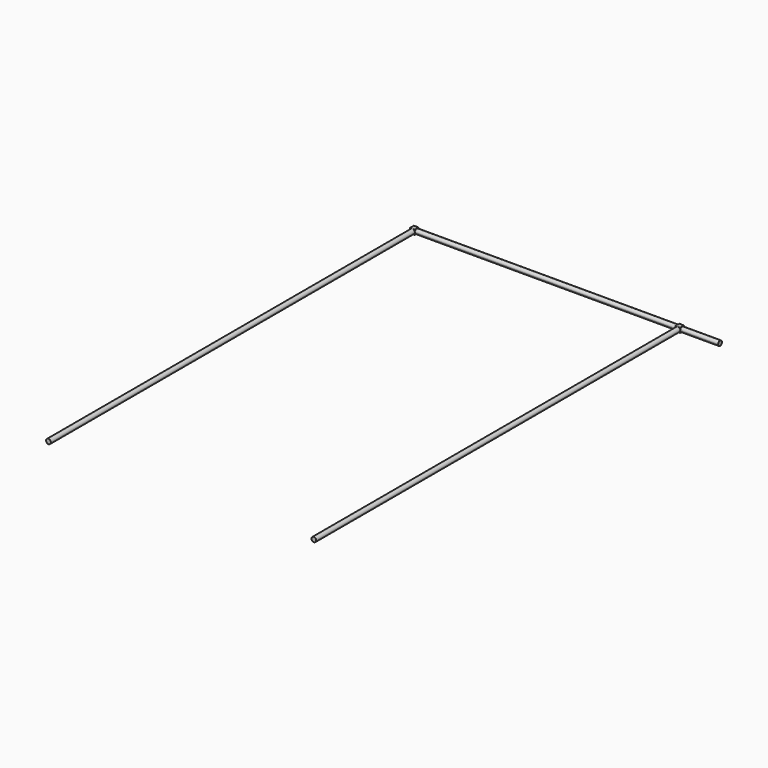
from build123d import *

# Parameters (mm, degrees)
F0_R     = 9.525
F1_DEPTH = 1828.8
F2_W     = 19.05
F2_H     = 19.05
F3_DEPTH = 19.05
F5_DEPTH = 1219.2


with BuildPart() as f1:
    # F0 (on Front) → F1 (new body)
    with BuildSketch(Plane.XZ):
        with Locations((-36.919852, 0)):
            Circle(F0_R)
        with BuildLine():
            ThreePointArc((1039.405148, 0), (1029.880148, 9.525), (1020.355148, 0))
            ThreePointArc((1020.355148, 0), (1029.880148, -9.525), (1039.405148, 0))
        make_face()
    extrude(amount=F1_DEPTH)


with BuildPart() as f3:
    # F2 (on face) → F3 (new body)
    with BuildSketch(Plane(origin=(0, 0, 0), x_dir=(-1, 0, 0), z_dir=(0, 1, 0))):
        with Locations((-1029.880148, 0)):
            Rectangle(F2_W, F2_H)
        with Locations((36.977075, 0)):
            Rectangle(F2_W, F2_H)
    extrude(amount=F3_DEPTH)


with BuildPart() as f5:
    # F4 (on face) → F5 (new body)
    with BuildSketch(Plane.YZ.offset(-27.452075)):
        with BuildLine():
            ThreePointArc((9.525, -9.525), (16.260192, -6.735192), (19.05, 0))
            ThreePointArc((19.05, 0), (16.260192, 6.735192), (9.525, 9.525))
            ThreePointArc((9.525, 9.525), (2.789808, 6.735192), (0, 0))
            ThreePointArc((0, 0), (2.789808, -6.735192), (9.525, -9.525))
        make_face()
    extrude(amount=F5_DEPTH)


solid = Compound([f1.part, f3.part, f5.part])
